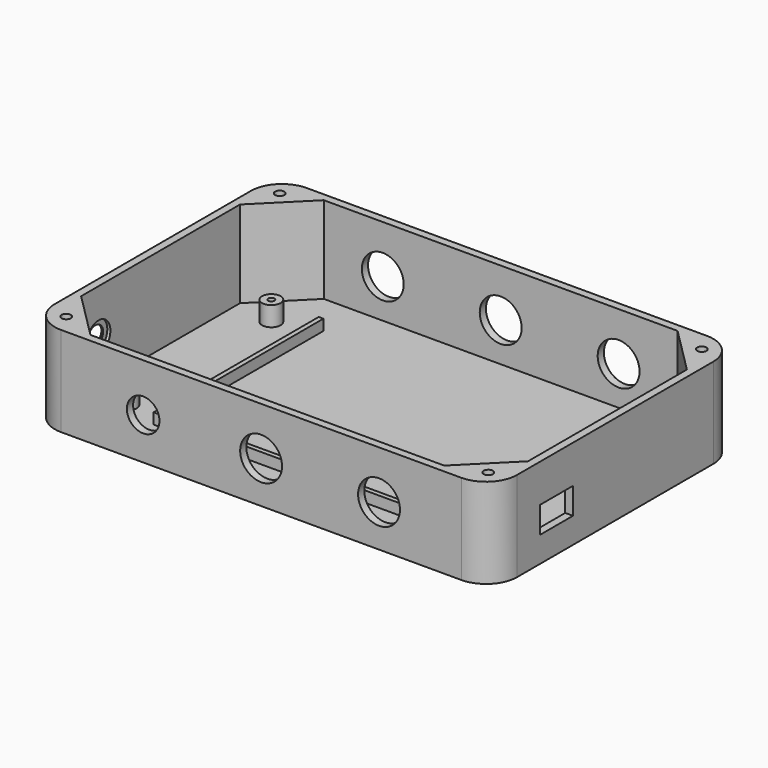
from build123d import *

# Parameters (mm, degrees)
PAD_DEPTH       = 29
SKETCH001_R     = 1.5
POCKET_DEPTH    = 28
SKETCH004_R     = 3
PAD001_DEPTH    = 6.3
SKETCH006_R     = 6.75
POCKET003_DEPTH = 5
SKETCH008_W     = 13.2
SKETCH008_H     = 8.5
POCKET005_DEPTH = 5
PAD002_DEPTH    = 3.5
SKETCH014_R     = 4.8
POCKET010_DEPTH = 1
SKETCH011_R     = 6.75
SKETCH011_R_2   = 5.25
POCKET011_DEPTH = 5
SKETCH015_R     = 4.4
POCKET012_DEPTH = 1
POCKET013_DEPTH = 5
SKETCH016_R     = 1
POCKET014_DEPTH = 3


with BuildPart() as part:
    # Sketch → Pad (new body)
    with BuildSketch(Plane.XY):
        with BuildLine():
            Line((-64.5, 49.5), (64.5, 49.5))
            ThreePointArc((74.5, 39.5), (71.571068, 46.571068), (64.5, 49.5))
            Line((74.5, 39.5), (74.5, -39.5))
            ThreePointArc((64.5, -49.5), (71.571068, -46.571068), (74.5, -39.5))
            Line((64.5, -49.5), (-64.5, -49.5))
            ThreePointArc((-74.5, -39.5), (-71.571068, -46.571068), (-64.5, -49.5))
            Line((-74.5, -39.5), (-74.5, 39.5))
            ThreePointArc((-64.5, 49.5), (-71.571068, 46.571068), (-74.5, 39.5))
        make_face()
    extrude(amount=PAD_DEPTH)

    # Sketch001 (on Face10 of Pad) → Pocket (cut)
    with BuildSketch(Plane.XY.offset(29)):
        with Locations((68, 43)):
            Circle(SKETCH001_R)
        with Locations((-68, 43)):
            Circle(SKETCH001_R)
        with Locations((68, -43)):
            Circle(SKETCH001_R)
        with Locations((-68, -43)):
            Circle(SKETCH001_R)
        Polygon((-57, 47), (57, 47), (72, 32), (72, -32), (57, -47), (-57, -47), (-72, -32), (-72, 32), align=None)
    extrude(amount=-POCKET_DEPTH, mode=Mode.SUBTRACT)

    # Sketch004 (on Face24 of Pocket) → Pad001 (join)
    with BuildSketch(Plane.XY.offset(1)):
        with Locations((-59.5, 29)):
            Circle(SKETCH004_R)
        with Locations((-59.5, -29)):
            Circle(SKETCH004_R)
        with Locations((59.5, -29)):
            Circle(SKETCH004_R)
        with Locations((59.5, 29)):
            Circle(SKETCH004_R)
    extrude(amount=PAD001_DEPTH)

    # Sketch006 (on Face7 of Pad001) → Pocket003 (cut)
    with BuildSketch(Plane(origin=(0, 49.5, 0), x_dir=(-1, 0, 0), z_dir=(0, 1, 0))):
        with Locations((-38, 13.5)):
            Circle(SKETCH006_R)
        with Locations((0, 13.5)):
            Circle(SKETCH006_R)
        with Locations((38, 13.5)):
            Circle(SKETCH006_R)
    extrude(amount=-POCKET003_DEPTH, mode=Mode.SUBTRACT)

    # Sketch008 (on Face9 of Pocket003) → Pocket005 (cut)
    with BuildSketch(Plane.YZ.offset(74.5)):
        with Locations((-23.6, 12.5)):
            Rectangle(SKETCH008_W, SKETCH008_H)
    extrude(amount=-POCKET005_DEPTH, mode=Mode.SUBTRACT)

    # Sketch010 → Pad002 (join)
    with BuildSketch(Plane.XY.offset(1)):
        Polygon((-47.65, 33.25), (-47.65, -33.25), (47.65, -33.25), (47.65, 33.25), (46.15, 33.25), (46.15, -31.75), (-46.15, -31.75), (-46.15, 33.25), align=None)
    extrude(amount=PAD002_DEPTH)

    # Sketch014 → Pocket010 (cut)
    with BuildSketch(Plane.YZ.offset(-72)):
        with Locations((-25, 14.5)):
            Circle(SKETCH014_R)
    extrude(amount=-POCKET010_DEPTH, mode=Mode.SUBTRACT)

    # Sketch011 → Pocket011 (cut)
    with BuildSketch(Plane.XZ.offset(49.5)):
        with Locations((0, 13.5)):
            Circle(SKETCH011_R)
        with Locations((38, 13.5)):
            Circle(SKETCH011_R)
        with Locations((-38, 13.5)):
            Circle(SKETCH011_R_2)
    extrude(amount=-POCKET011_DEPTH, mode=Mode.SUBTRACT)

    # Sketch015 → Pocket012 (cut)
    with BuildSketch(Plane(origin=(-74.5, 0, 0), x_dir=(0, -1, 0), z_dir=(-1, 0, 0))):
        with Locations((25, 14.5)):
            Circle(SKETCH015_R)
    extrude(amount=-POCKET012_DEPTH, mode=Mode.SUBTRACT)

    # Sketch012 → Pocket013 (cut)
    with BuildSketch(Plane(origin=(-74.5, 0, 0), x_dir=(0, -1, 0), z_dir=(-1, 0, 0))):
        with BuildLine():
            ThreePointArc((27.69875, 16.035808), (21.89485, 14.5), (27.69875, 12.964192))
            Line((27.69875, 16.035808), (27.69875, 12.964192))
        make_face()
    extrude(amount=-POCKET013_DEPTH, mode=Mode.SUBTRACT)

    # Sketch016 (on Face37 of Pocket013) → Pocket014 (cut)
    with BuildSketch(Plane.XY.offset(7.3)):
        with Locations((-59.5, 29)):
            Circle(SKETCH016_R)
        with Locations((-59.5, -29)):
            Circle(SKETCH016_R)
        with Locations((59.5, 29)):
            Circle(SKETCH016_R)
        with Locations((59.5, -29)):
            Circle(SKETCH016_R)
    extrude(amount=-POCKET014_DEPTH, mode=Mode.SUBTRACT)


solid = part.part
